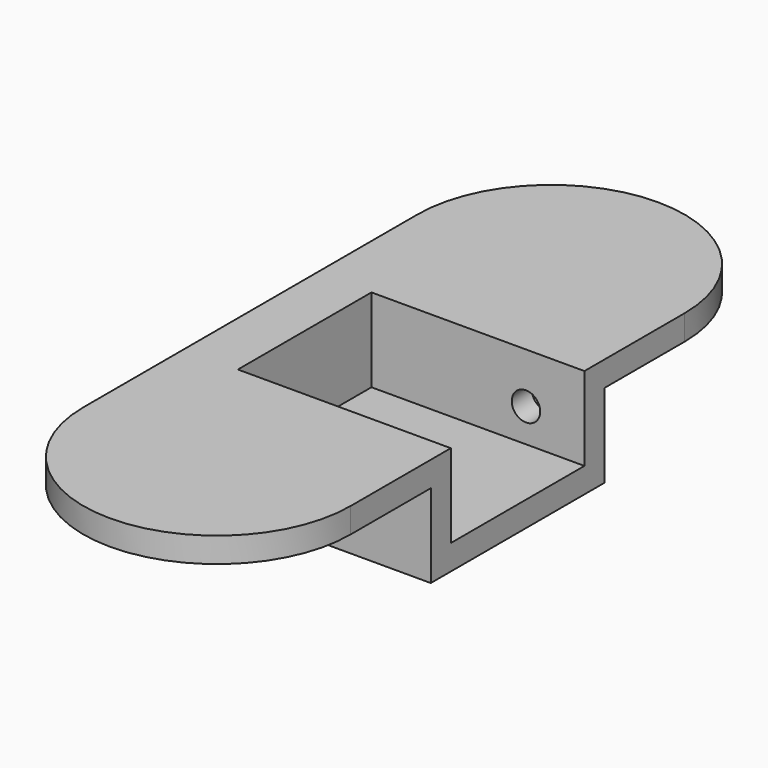
from build123d import *

# Parameters (mm, degrees)
F1_DEPTH = 3
F2_W     = 32
F2_H     = 26
F3_DEPTH = 10
F4_W     = 25.5
F4_H     = 20
F5_DEPTH = 10
F6_R     = 1.7
F7_DEPTH = 101.6


with BuildPart() as f1:
    # F0 (on Top) → F1 (new body)
    with BuildSketch(Plane.XY):
        with BuildLine():
            Line((16, -25), (16, 25))
            ThreePointArc((16, 25), (0, 41), (-16, 25))
            Line((-16, 25), (-16, -25))
            ThreePointArc((-16, -25), (0, -41), (16, -25))
        make_face()
    extrude(amount=F1_DEPTH)

    # F2 (on face) → F3 (join)
    with BuildSketch(Plane(origin=(0, 0, 0), x_dir=(1, 0, 0), z_dir=(0, 0, -1))):
        Rectangle(F2_W, F2_H)
    extrude(amount=F3_DEPTH)

    # F4 (on face) → F5 (cut)
    with BuildSketch(Plane.XY.offset(3)):
        with Locations((3.25, 0)):
            Rectangle(F4_W, F4_H)
    extrude(amount=-F5_DEPTH, mode=Mode.SUBTRACT)

    # F6 (on face) → F7 (cut)
    with BuildSketch(Plane.XZ.offset(13)):
        with Locations((9, -3)):
            Circle(F6_R)
    extrude(amount=-F7_DEPTH, mode=Mode.SUBTRACT)


solid = f1.part
